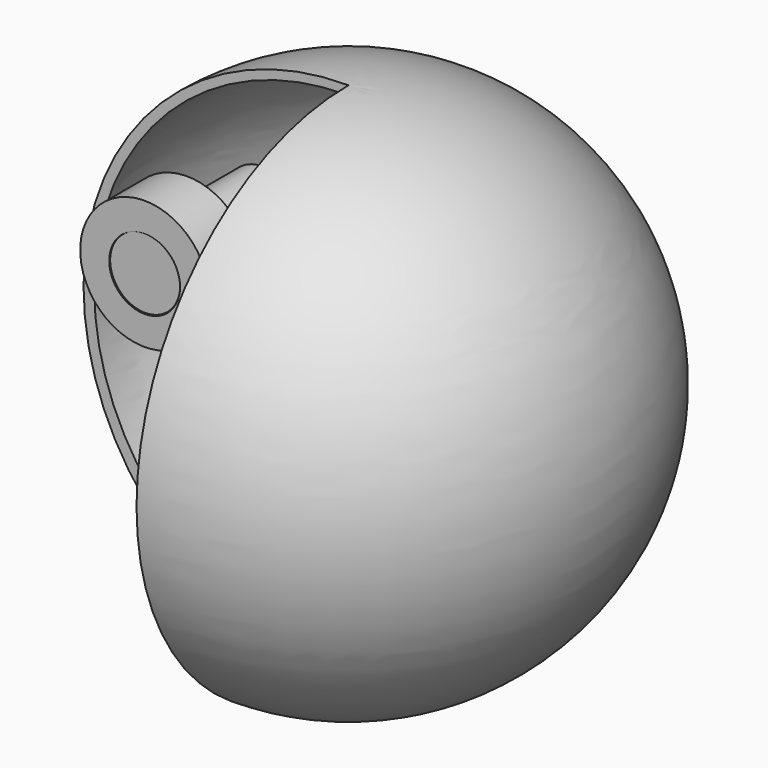
from build123d import *

# Parameters (mm, degrees)
F1_ANGLE = 270
F4_R     = 18.566660876
F4_R_2   = 10.2014490111
F5_DEPTH = 7.62
F6_R     = 10.0772725622
F7_DEPTH = 7.366
F8_DEPTH = 41.91


with BuildPart() as f1:
    # F0 (on Front) → F1 (revolve)
    with BuildSketch(Plane.XZ):
        with BuildLine():
            Line((0, -75.515344739), (0, 76.0528072715))
            ThreePointArc((0, 76.0528072715), (-76.3528564825, 0.2687312663), (0, -75.515344739))
        make_face()
    revolve(axis=Axis((0, 0, 1.1312179267), (0, 0, -1)), revolution_arc=F1_ANGLE)

    # F2 (on Front) → F3 (revolve, cut)
    with BuildSketch(Plane.XZ):
        with BuildLine():
            Line((0, -71.9044134021), (0, 73.4732374549))
            ThreePointArc((0, 73.4732374549), (-73.2840644122, 0.7844120264), (0, -71.9044134021))
        make_face()
    revolve(axis=Axis((0, 0, 0.7844120264), (0, 0, -1)), mode=Mode.SUBTRACT)

    # F4 (on Front) → F5 (join, symmetric)
    with BuildSketch(Plane.XZ):
        with Locations((-52.6427440345, 14.2065687105)):
            Circle(F4_R)
        with Locations((-52.6427440345, 14.2065687105)):
            Circle(F4_R_2, mode=Mode.SUBTRACT)
    extrude(amount=F5_DEPTH, both=True)


with BuildPart() as f7:
    # F6 (on Front) → F7 (new body, symmetric)
    with BuildSketch(Plane.XZ):
        with Locations((-52.7032539248, 14.2682055011)):
            Circle(F6_R)
    extrude(amount=F7_DEPTH, both=True)

    # F8 (add): a face of the model
    f8_faces = [f7.faces().sort_by_distance(p)[0] for p in [
        (-52.7032539248, -7.366, 14.2682055011),
    ]]
    extrude(f8_faces, amount=-F8_DEPTH)


solid = Compound([f1.part, f7.part])
